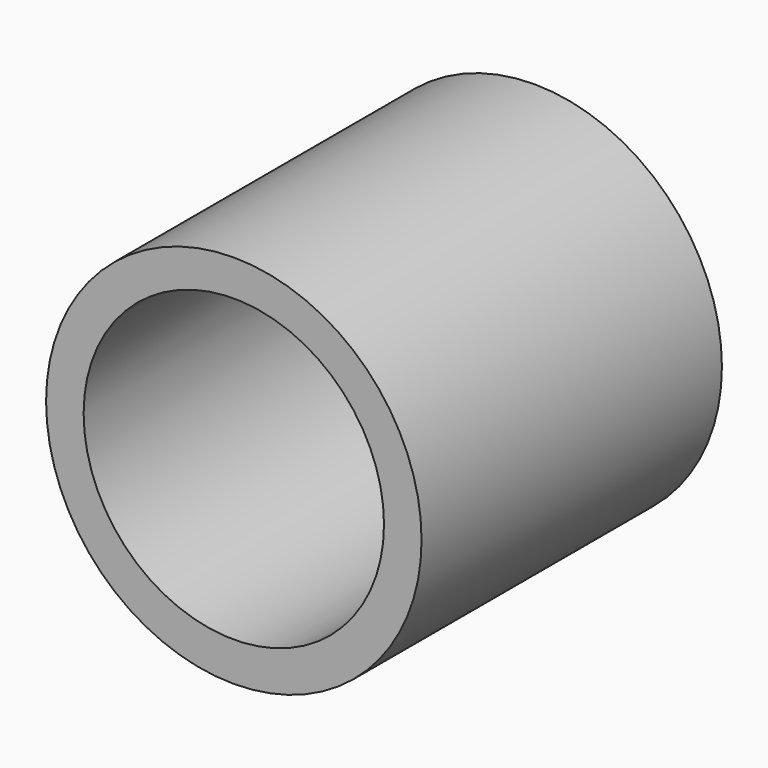
from build123d import *

# Parameters (mm, degrees)
F0_R     = 63.5
F0_R_2   = 50.8
F1_DEPTH = 63.5


with BuildPart() as f1:
    # F0 (on Front) → F1 (new body, symmetric)
    with BuildSketch(Plane.XZ):
        Circle(F0_R)
        with Locations((0, 0.507178)):
            Circle(F0_R_2, mode=Mode.SUBTRACT)
    extrude(amount=F1_DEPTH, both=True)


solid = f1.part
